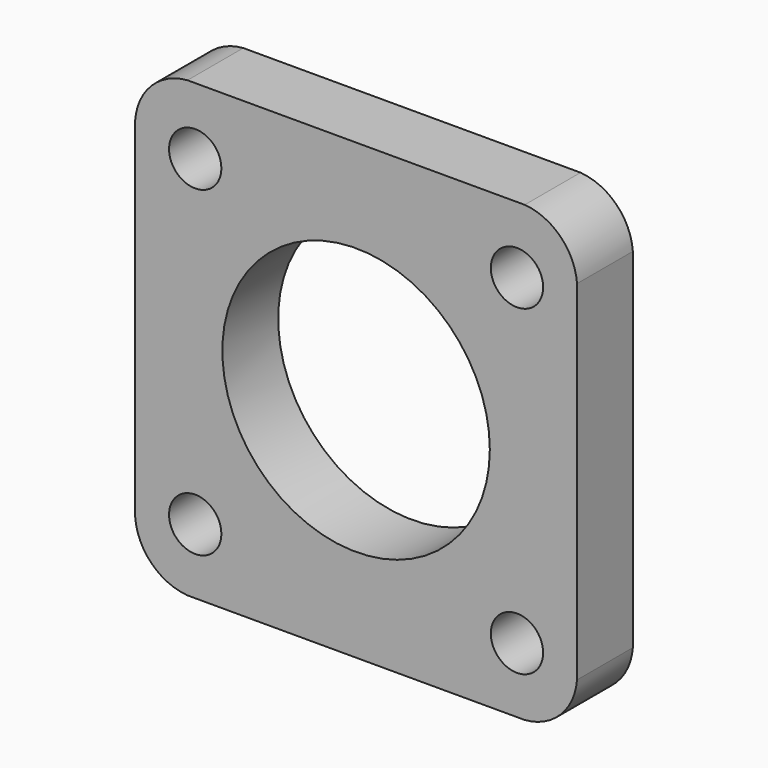
from build123d import *

# Parameters (mm, degrees)
F0_R     = 4.5
F0_R_2   = 23
F1_DEPTH = 12


with BuildPart() as f1:
    # F0 (on Front) → F1 (new body)
    with BuildSketch(Plane.XZ):
        with BuildLine():
            ThreePointArc((38, 30), (35.171573, 36.171573), (29, 39))
            Line((29, 39), (-29, 39))
            ThreePointArc((-29, 39), (-35.171573, 36.171573), (-38, 30))
            Line((-38, 30), (-38, -30))
            ThreePointArc((-38, -30), (-35.171573, -36.171573), (-29, -39))
            Line((-29, -39), (29, -39))
            ThreePointArc((29, -39), (35.171573, -36.171573), (38, -30))
            Line((38, -30), (38, 30))
        make_face()
        with Locations((-27.672, -27.8)):
            Circle(F0_R, mode=Mode.SUBTRACT)
        with Locations((27.672008, -27.8)):
            Circle(F0_R, mode=Mode.SUBTRACT)
        with Locations((-27.672, 27.55)):
            Circle(F0_R, mode=Mode.SUBTRACT)
        Circle(F0_R_2, mode=Mode.SUBTRACT)
        with Locations((27.672, 27.55)):
            Circle(F0_R, mode=Mode.SUBTRACT)
    extrude(amount=F1_DEPTH)


solid = f1.part
